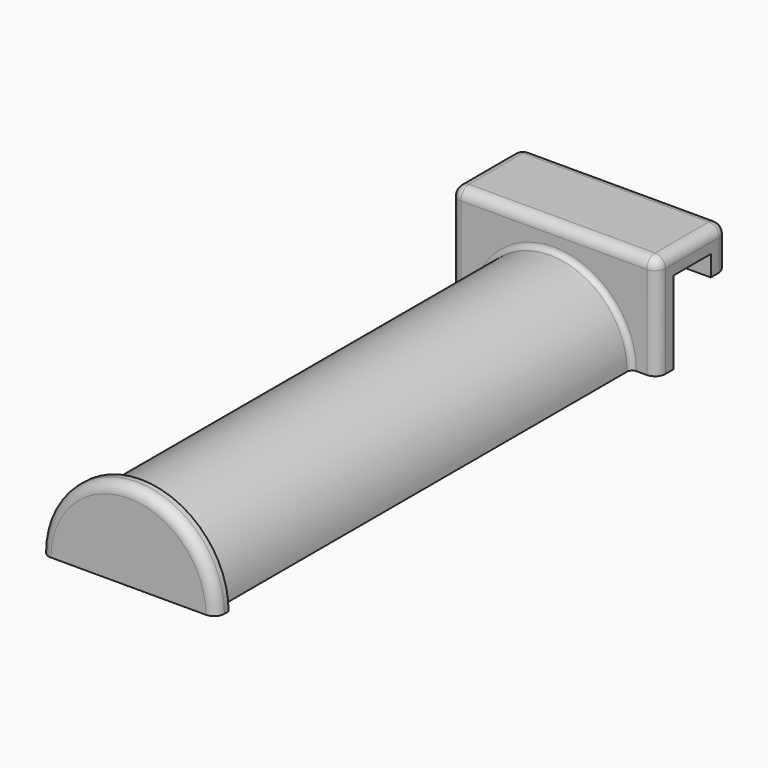
from build123d import *

# Parameters (mm, degrees)
F1_DEPTH = 100
F3_DEPTH = 20
F5_DEPTH = 3
F6_R     = 2
F7_R     = 1


with BuildPart() as f1:
    # F0 (on Front) → F1 (new body)
    with BuildSketch(Plane.XZ):
        with BuildLine():
            ThreePointArc((15, 0), (0, 15), (-15, 0))
            Line((-15, 0), (-11, 0))
            Line((-11, 0), (-11, 3.297717))
            Line((-11, 3.297717), (0, 11))
            Line((0, 11), (11, 3.297717))
            Line((11, 3.297717), (11, 0))
            Line((11, 0), (15, 0))
        make_face()
    extrude(amount=F1_DEPTH)

    # F2 (on Right) → F3 (join, symmetric)
    with BuildSketch(Plane.YZ):
        Polygon((0, 20), (0, 0), (4, 0), (4, 16), (13, 16), (13, 12), (17, 12), (17, 20), align=None)
    extrude(amount=F3_DEPTH, both=True)

    # F4 (on face) → F5 (join)
    with BuildSketch(Plane.XZ.offset(100)):
        with BuildLine():
            ThreePointArc((17, 0), (0, 17), (-17, 0))
            Line((-17, 0), (17, 0))
        make_face()
    extrude(amount=F5_DEPTH)

    # F6
    f6_edges = [f1.edges().sort_by_distance(p)[0] for p in [
        (0, 17, 20),
        (0, 0, 20),
        (20, 8.5, 20),
        (-20, 8.5, 20),
        (0, 17, 12),
        (20, 0, 10),
        (-20, 0, 10),
        (-20, 17, 16),
        (20, 17, 16),
        (0, -103, 17),
    ]]
    fillet(f6_edges, radius=F6_R)

    # F7
    f7_edges = [f1.edges().sort_by_distance(p)[0] for p in [
        (0, 0, 15),
        (0, -100, 15),
    ]]
    fillet(f7_edges, radius=F7_R)


solid = f1.part
